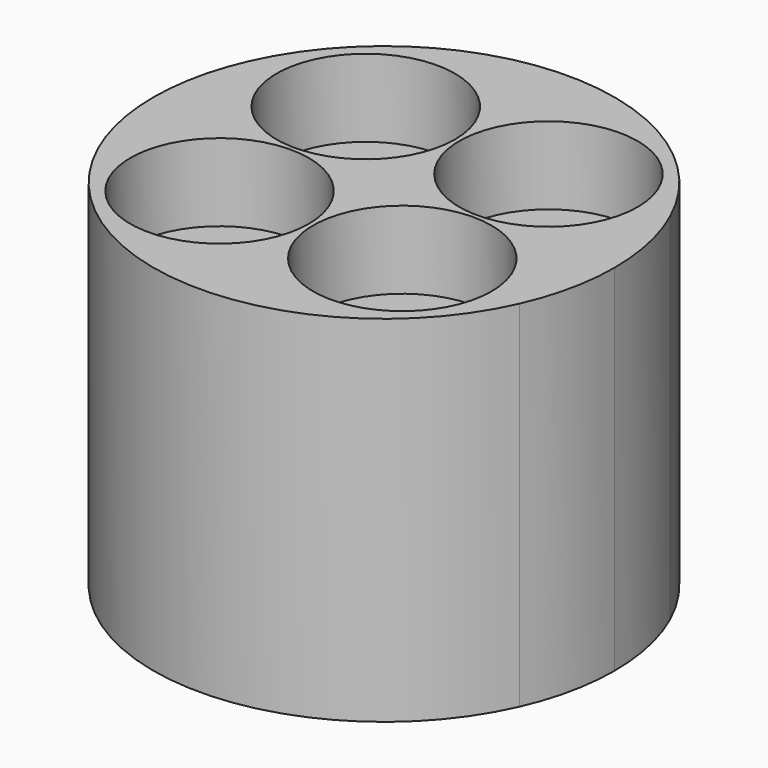
from build123d import *

# Parameters (mm, degrees)
F0_W           = 13.462
F0_H           = 13.462
F1_DEPTH       = 50.8
F5_D           = 5.1054
F5_DEPTH       = 22.86
F5_CBORE_D     = 25.5524
F5_CBORE_DEPTH = 11.0998
F5_TIP         = 1.5338169022
F6_D           = 17.4625
F6_DEPTH       = 23.8125
F6_TIP         = 5.2462642799


with BuildPart() as f1:
    # F0 (on Top) → F1 (new body)
    with BuildSketch(Plane.XY):
        with BuildLine():
            Line((-37.5396344488, 30.8131494279), (-17.9816344488, 30.8131494279))
            ThreePointArc((-17.9816344488, 30.8131494279), (-18.7067968135, 37.6952902366), (-20.8504328807, 44.2751494279))
            Line((-20.8504328807, 44.2751494279), (-51.0016344488, 44.2751494279))
            Line((-51.0016344488, 44.2751494279), (-51.0016344488, 30.8131494279))
            Line((-51.0016344488, 30.8131494279), (-37.5396344488, 30.8131494279))
        make_face()
        with BuildLine():
            Line((-51.0016344488, 44.2751494279), (-20.8504328807, 44.2751494279))
            ThreePointArc((-20.8504328807, 44.2751494279), (-51.0016344488, 63.8331494279), (-81.1528360169, 44.2751494279))
            Line((-81.1528360169, 44.2751494279), (-51.0016344488, 44.2751494279))
        make_face()
        with BuildLine():
            Line((-51.0016344488, 44.2751494279), (-81.1528360169, 44.2751494279))
            ThreePointArc((-81.1528360169, 44.2751494279), (-83.296472084, 37.6952902366), (-84.0216344488, 30.8131494279))
            Line((-84.0216344488, 30.8131494279), (-64.4636344488, 30.8131494279))
            Line((-64.4636344488, 30.8131494279), (-51.0016344488, 30.8131494279))
            Line((-51.0016344488, 30.8131494279), (-51.0016344488, 44.2751494279))
        make_face()
        with BuildLine():
            ThreePointArc((-84.0216344488, 30.8131494279), (-83.296472084, 23.9310086192), (-81.1528360169, 17.3511494279))
            Line((-81.1528360169, 17.3511494279), (-64.4636344488, 17.3511494279))
            Line((-64.4636344488, 17.3511494279), (-64.4636344488, 30.8131494279))
            Line((-64.4636344488, 30.8131494279), (-84.0216344488, 30.8131494279))
        make_face()
        with BuildLine():
            ThreePointArc((-81.1528360169, 17.3511494279), (-51.0016344488, -2.2068505721), (-20.8504328807, 17.3511494279))
            Line((-20.8504328807, 17.3511494279), (-37.5396344488, 17.3511494279))
            Line((-37.5396344488, 17.3511494279), (-51.0016344488, 17.3511494279))
            Line((-51.0016344488, 17.3511494279), (-64.4636344488, 17.3511494279))
            Line((-64.4636344488, 17.3511494279), (-81.1528360169, 17.3511494279))
        make_face()
        with BuildLine():
            ThreePointArc((-20.8504328807, 17.3511494279), (-18.7067968135, 23.9310086192), (-17.9816344488, 30.8131494279))
            Line((-17.9816344488, 30.8131494279), (-37.5396344488, 30.8131494279))
            Line((-37.5396344488, 30.8131494279), (-37.5396344488, 17.3511494279))
            Line((-37.5396344488, 17.3511494279), (-20.8504328807, 17.3511494279))
        make_face()
        with BuildLine():
            Line((-51.0016344488, 44.2751494279), (-20.8504328807, 44.2751494279))
            ThreePointArc((-20.8504328807, 44.2751494279), (-51.0016344488, 63.8331494279), (-81.1528360169, 44.2751494279))
            Line((-81.1528360169, 44.2751494279), (-51.0016344488, 44.2751494279))
        make_face()
        with BuildLine():
            ThreePointArc((-81.1528360169, 17.3511494279), (-51.0016344488, -2.2068505721), (-20.8504328807, 17.3511494279))
            Line((-20.8504328807, 17.3511494279), (-37.5396344488, 17.3511494279))
            Line((-37.5396344488, 17.3511494279), (-51.0016344488, 17.3511494279))
            Line((-51.0016344488, 17.3511494279), (-64.4636344488, 17.3511494279))
            Line((-64.4636344488, 17.3511494279), (-81.1528360169, 17.3511494279))
        make_face()
        with Locations((-57.7326344488, 24.0821494279)):
            Rectangle(F0_W, F0_H)
        with Locations((-44.2706344488, 24.0821494279)):
            Rectangle(F0_W, F0_H)
        with BuildLine():
            Line((-37.5396344488, 30.8131494279), (-17.9816344488, 30.8131494279))
            ThreePointArc((-17.9816344488, 30.8131494279), (-18.7067968135, 37.6952902366), (-20.8504328807, 44.2751494279))
            Line((-20.8504328807, 44.2751494279), (-51.0016344488, 44.2751494279))
            Line((-51.0016344488, 44.2751494279), (-51.0016344488, 30.8131494279))
            Line((-51.0016344488, 30.8131494279), (-37.5396344488, 30.8131494279))
        make_face()
        with BuildLine():
            Line((-51.0016344488, 44.2751494279), (-81.1528360169, 44.2751494279))
            ThreePointArc((-81.1528360169, 44.2751494279), (-83.296472084, 37.6952902366), (-84.0216344488, 30.8131494279))
            Line((-84.0216344488, 30.8131494279), (-64.4636344488, 30.8131494279))
            Line((-64.4636344488, 30.8131494279), (-51.0016344488, 30.8131494279))
            Line((-51.0016344488, 30.8131494279), (-51.0016344488, 44.2751494279))
        make_face()
        with BuildLine():
            ThreePointArc((-84.0216344488, 30.8131494279), (-83.296472084, 23.9310086192), (-81.1528360169, 17.3511494279))
            Line((-81.1528360169, 17.3511494279), (-64.4636344488, 17.3511494279))
            Line((-64.4636344488, 17.3511494279), (-64.4636344488, 30.8131494279))
            Line((-64.4636344488, 30.8131494279), (-84.0216344488, 30.8131494279))
        make_face()
        with BuildLine():
            ThreePointArc((-20.8504328807, 17.3511494279), (-18.7067968135, 23.9310086192), (-17.9816344488, 30.8131494279))
            Line((-17.9816344488, 30.8131494279), (-37.5396344488, 30.8131494279))
            Line((-37.5396344488, 30.8131494279), (-37.5396344488, 17.3511494279))
            Line((-37.5396344488, 17.3511494279), (-20.8504328807, 17.3511494279))
        make_face()
    extrude(amount=F1_DEPTH)

    # F5
    with Locations(Plane.XY.offset(50.8)):
        with Locations((-64.0826344488, 43.8941494279), (-37.9206344488, 43.8941494279), (-37.9206344488, 17.7321494279), (-64.0826344488, 17.7321494279)):
            CounterBoreHole(F5_D / 2, F5_CBORE_D / 2, F5_CBORE_DEPTH, depth=F5_DEPTH)
            with Locations((0, 0, -(F5_DEPTH + F5_TIP / 2))):  # 118° drill point
                Cone(0, F5_D / 2, F5_TIP, mode=Mode.SUBTRACT)

    # F6
    with Locations(Plane(origin=(0, 0, 0), x_dir=(1, 0, 0), z_dir=(0, 0, -1))):
        with Locations((-51.0016344488, -30.8131494279)):
            Hole(F6_D / 2, depth=F6_DEPTH)
            with Locations((0, 0, -(F6_DEPTH + F6_TIP / 2))):  # 118° drill point
                Cone(0, F6_D / 2, F6_TIP, mode=Mode.SUBTRACT)


solid = f1.part
